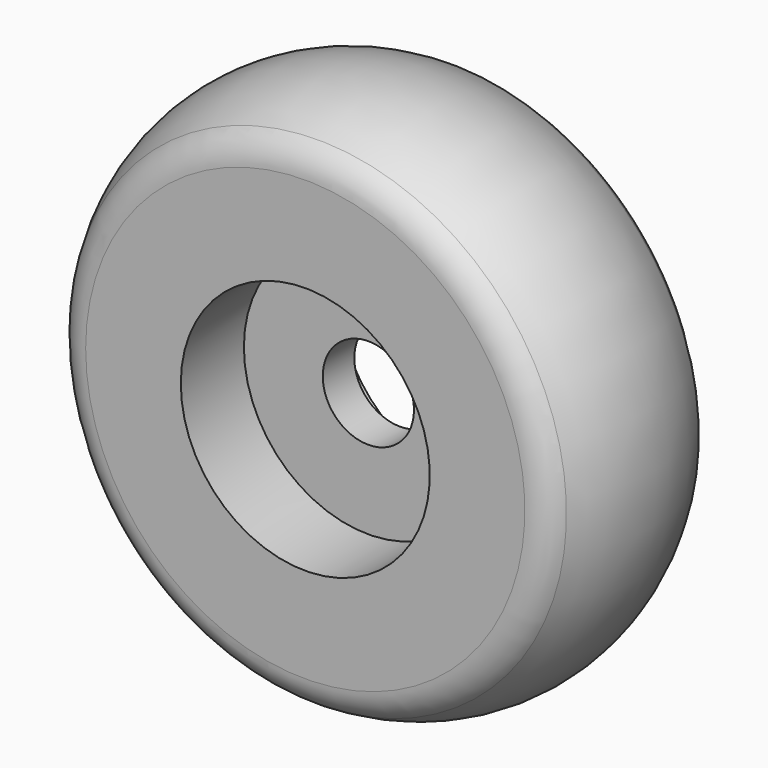
from build123d import *

# Parameters (mm, degrees)
F2_R     = 11.05
F3_DEPTH = 25
F5_R     = 13.182718
F5_R_2   = 4.05
F6_DEPTH = 1.75


with BuildPart() as f1:
    # F0 (on Top) → F1 (revolve)
    with BuildSketch(Plane.XY):
        with BuildLine():
            Line((-19.49521, 0), (0, 0))
            Line((0, 0), (0, 17.5))
            Line((0, 17.5), (-19.49521, 17.5))
            ThreePointArc((-19.49521, 17.5), (-20.957649, 17.119403), (-22.049021, 16.074182))
            ThreePointArc((-22.049021, 16.074182), (-24.125, 8.75), (-22.049021, 1.425818))
            ThreePointArc((-22.049021, 1.425818), (-20.957649, 0.380597), (-19.49521, 0))
        make_face()
    revolve(axis=Axis((0, 8.75, 0), (0, 1, 0)))

    # F2 (on face) → F3 (cut)
    with BuildSketch(Plane(origin=(0, 17.5, 0), x_dir=(-1, 0, 0), z_dir=(0, 1, 0))):
        Circle(F2_R)
        Circle(F2_R)
    extrude(amount=-F3_DEPTH, mode=Mode.SUBTRACT)

    # F5 (on mid) → F6 (join, symmetric)
    with BuildSketch(Plane.XZ.offset(-8.75)):
        Circle(F5_R)
        Circle(F5_R_2, mode=Mode.SUBTRACT)
    extrude(amount=F6_DEPTH, both=True)


solid = f1.part
